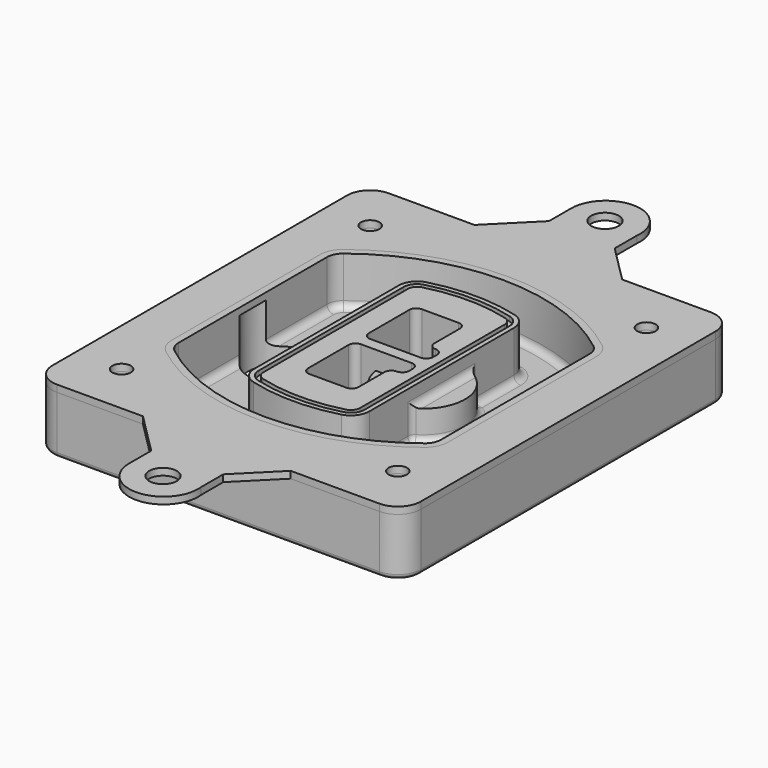
from build123d import *

# Parameters (mm, degrees)
F0_R      = 4
F1_DEPTH  = 25
F2_DEPTH  = 3
F3_DEPTH  = 18
F5_DEPTH  = 21
F6_DEPTH  = 2
F8_DEPTH  = 20
F9_DEPTH  = 16
F10_DEPTH = 25
F7_R      = 6
F7_R_2    = 4
F11_DEPTH = 6
F13_DEPTH = 9
F14_R     = 3
F15_R     = 2
F16_R     = 6
F16_R_2   = 4
F17_DEPTH = 3


with BuildPart() as f1:
    # F0 (on Top) → F1 (new body)
    with BuildSketch(Plane.XY):
        with BuildLine():
            ThreePointArc((-80, -80), (-77.0710678119, -87.0710678119), (-70, -90))
            Line((-70, -90), (70, -90))
            ThreePointArc((70, -90), (77.0710678119, -87.0710678119), (80, -80))
            Line((80, -80), (80, 80))
            ThreePointArc((80, 80), (77.0710678119, 87.0710678119), (70, 90))
            Line((70, 90), (-70, 90))
            ThreePointArc((-70, 90), (-77.0710678119, 87.0710678119), (-80, 80))
            Line((-80, 80), (-80, -80))
        make_face()
        with Locations((-60, -67.5)):
            Circle(F0_R, mode=Mode.SUBTRACT)
        with Locations((60, -67.5)):
            Circle(F0_R, mode=Mode.SUBTRACT)
        with Locations((-60, 67.5)):
            Circle(F0_R, mode=Mode.SUBTRACT)
        with BuildLine():
            ThreePointArc((-64, 40.2934422872), (-62.5820384798, 46.4328484224), (-58.6153846154, 51.3286200352))
            ThreePointArc((-58.6153846154, 51.3286200352), (0, 71.5), (58.6153846154, 51.3286200352))
            ThreePointArc((58.6153846154, 51.3286200352), (62.5820384798, 46.4328484224), (64, 40.2934422872))
            Line((64, 40.2934422872), (64, -40.2934422872))
            ThreePointArc((64, -40.2934422872), (62.5820384798, -46.4328484224), (58.6153846154, -51.3286200352))
            ThreePointArc((58.6153846154, -51.3286200352), (0, -71.5), (-58.6153846154, -51.3286200352))
            ThreePointArc((-58.6153846154, -51.3286200352), (-62.5820384798, -46.4328484224), (-64, -40.2934422872))
            Line((-64, -40.2934422872), (-64, 40.2934422872))
        make_face(mode=Mode.SUBTRACT)
        with Locations((60, 67.5)):
            Circle(F0_R, mode=Mode.SUBTRACT)
        with BuildLine():
            ThreePointArc((58.6153846154, 51.3286200352), (0, 71.5), (-58.6153846154, 51.3286200352))
            ThreePointArc((-58.6153846154, 51.3286200352), (-62.5820384798, 46.4328484224), (-64, 40.2934422872))
            Line((-64, 40.2934422872), (-64, -40.2934422872))
            ThreePointArc((-64, -40.2934422872), (-62.5820384798, -46.4328484224), (-58.6153846154, -51.3286200352))
            ThreePointArc((-58.6153846154, -51.3286200352), (0, -71.5), (58.6153846154, -51.3286200352))
            ThreePointArc((58.6153846154, -51.3286200352), (62.5820384798, -46.4328484224), (64, -40.2934422872))
            Line((64, -40.2934422872), (64, 40.2934422872))
            ThreePointArc((64, 40.2934422872), (62.5820384798, 46.4328484224), (58.6153846154, 51.3286200352))
        make_face()
        with BuildLine():
            Line((-60, -40.2934422872), (-60, 40.2934422872))
            ThreePointArc((-60, 40.2934422872), (-58.9871703427, 44.6787323838), (-56.1538461538, 48.1757121072))
            ThreePointArc((-56.1538461538, 48.1757121072), (0, 67.5), (56.1538461538, 48.1757121072))
            ThreePointArc((56.1538461538, 48.1757121072), (58.9871703427, 44.6787323838), (60, 40.2934422872))
            Line((60, 40.2934422872), (60, -40.2934422872))
            ThreePointArc((60, -40.2934422872), (58.9871703427, -44.6787323838), (56.1538461538, -48.1757121072))
            ThreePointArc((56.1538461538, -48.1757121072), (0, -67.5), (-56.1538461538, -48.1757121072))
            ThreePointArc((-56.1538461538, -48.1757121072), (-58.9871703427, -44.6787323838), (-60, -40.2934422872))
        make_face(mode=Mode.SUBTRACT)
        with BuildLine():
            ThreePointArc((-56.1538461538, 48.1757121072), (-58.9871703427, 44.6787323838), (-60, 40.2934422872))
            Line((-60, 40.2934422872), (-60, -40.2934422872))
            ThreePointArc((-60, -40.2934422872), (-58.9871703427, -44.6787323838), (-56.1538461538, -48.1757121072))
            ThreePointArc((-56.1538461538, -48.1757121072), (0, -67.5), (56.1538461538, -48.1757121072))
            ThreePointArc((56.1538461538, -48.1757121072), (58.9871703427, -44.6787323838), (60, -40.2934422872))
            Line((60, -40.2934422872), (60, 40.2934422872))
            ThreePointArc((60, 40.2934422872), (58.9871703427, 44.6787323838), (56.1538461538, 48.1757121072))
            ThreePointArc((56.1538461538, 48.1757121072), (0, 67.5), (-56.1538461538, 48.1757121072))
        make_face()
        with BuildLine():
            ThreePointArc((54.3076923077, 45.8110311612), (56.2910192399, 43.3631453548), (57, 40.2934422872))
            Line((57, 40.2934422872), (57, -40.2934422872))
            ThreePointArc((57, -40.2934422872), (56.2910192399, -43.3631453548), (54.3076923077, -45.8110311612))
            ThreePointArc((54.3076923077, -45.8110311612), (0, -64.5), (-54.3076923077, -45.8110311612))
            ThreePointArc((-54.3076923077, -45.8110311612), (-56.2910192399, -43.3631453548), (-57, -40.2934422872))
            Line((-57, -40.2934422872), (-57, 40.2934422872))
            ThreePointArc((-57, 40.2934422872), (-56.2910192399, 43.3631453548), (-54.3076923077, 45.8110311612))
            ThreePointArc((-54.3076923077, 45.8110311612), (0, 64.5), (54.3076923077, 45.8110311612))
        make_face(mode=Mode.SUBTRACT)
        with BuildLine():
            Line((57, -40.2934422872), (57, 40.2934422872))
            ThreePointArc((57, 40.2934422872), (56.2910192399, 43.3631453548), (54.3076923077, 45.8110311612))
            ThreePointArc((54.3076923077, 45.8110311612), (0, 64.5), (-54.3076923077, 45.8110311612))
            ThreePointArc((-54.3076923077, 45.8110311612), (-56.2910192399, 43.3631453548), (-57, 40.2934422872))
            Line((-57, 40.2934422872), (-57, -40.2934422872))
            ThreePointArc((-57, -40.2934422872), (-56.2910192399, -43.3631453548), (-54.3076923077, -45.8110311612))
            ThreePointArc((-54.3076923077, -45.8110311612), (0, -64.5), (54.3076923077, -45.8110311612))
            ThreePointArc((54.3076923077, -45.8110311612), (56.2910192399, -43.3631453548), (57, -40.2934422872))
        make_face()
    extrude(amount=-F1_DEPTH)

    # F0 (on Top) → F2 (join)
    with BuildSketch(Plane.XY):
        with BuildLine():
            ThreePointArc((-56.1538461538, 48.1757121072), (-58.9871703427, 44.6787323838), (-60, 40.2934422872))
            Line((-60, 40.2934422872), (-60, -40.2934422872))
            ThreePointArc((-60, -40.2934422872), (-58.9871703427, -44.6787323838), (-56.1538461538, -48.1757121072))
            ThreePointArc((-56.1538461538, -48.1757121072), (0, -67.5), (56.1538461538, -48.1757121072))
            ThreePointArc((56.1538461538, -48.1757121072), (58.9871703427, -44.6787323838), (60, -40.2934422872))
            Line((60, -40.2934422872), (60, 40.2934422872))
            ThreePointArc((60, 40.2934422872), (58.9871703427, 44.6787323838), (56.1538461538, 48.1757121072))
            ThreePointArc((56.1538461538, 48.1757121072), (0, 67.5), (-56.1538461538, 48.1757121072))
        make_face()
        with BuildLine():
            ThreePointArc((54.3076923077, 45.8110311612), (56.2910192399, 43.3631453548), (57, 40.2934422872))
            Line((57, 40.2934422872), (57, -40.2934422872))
            ThreePointArc((57, -40.2934422872), (56.2910192399, -43.3631453548), (54.3076923077, -45.8110311612))
            ThreePointArc((54.3076923077, -45.8110311612), (0, -64.5), (-54.3076923077, -45.8110311612))
            ThreePointArc((-54.3076923077, -45.8110311612), (-56.2910192399, -43.3631453548), (-57, -40.2934422872))
            Line((-57, -40.2934422872), (-57, 40.2934422872))
            ThreePointArc((-57, 40.2934422872), (-56.2910192399, 43.3631453548), (-54.3076923077, 45.8110311612))
            ThreePointArc((-54.3076923077, 45.8110311612), (0, 64.5), (54.3076923077, 45.8110311612))
        make_face(mode=Mode.SUBTRACT)
    extrude(amount=F2_DEPTH)

    # F0 (on Top) → F3 (cut)
    with BuildSketch(Plane.XY):
        with BuildLine():
            Line((57, -40.2934422872), (57, 40.2934422872))
            ThreePointArc((57, 40.2934422872), (56.2910192399, 43.3631453548), (54.3076923077, 45.8110311612))
            ThreePointArc((54.3076923077, 45.8110311612), (0, 64.5), (-54.3076923077, 45.8110311612))
            ThreePointArc((-54.3076923077, 45.8110311612), (-56.2910192399, 43.3631453548), (-57, 40.2934422872))
            Line((-57, 40.2934422872), (-57, -40.2934422872))
            ThreePointArc((-57, -40.2934422872), (-56.2910192399, -43.3631453548), (-54.3076923077, -45.8110311612))
            ThreePointArc((-54.3076923077, -45.8110311612), (0, -64.5), (54.3076923077, -45.8110311612))
            ThreePointArc((54.3076923077, -45.8110311612), (56.2910192399, -43.3631453548), (57, -40.2934422872))
        make_face()
    extrude(amount=-F3_DEPTH, mode=Mode.SUBTRACT)

    # F4 (on face) → F5 (join, through all)
    with BuildSketch(Plane.XY.offset(3)):
        with BuildLine():
            ThreePointArc((-25, -39.2465276821), (-23.3511545998, -44.1109737193), (-19.0842911877, -46.9702398883))
            ThreePointArc((-19.0842911877, -46.9702398883), (0, -49.5), (19.0842911877, -46.9702398883))
            ThreePointArc((19.0842911877, -46.9702398883), (23.3511545998, -44.1109737193), (25, -39.2465276821))
            Line((25, -39.2465276821), (25, 39.2465276821))
            ThreePointArc((25, 39.2465276821), (23.3511545998, 44.1109737193), (19.0842911877, 46.9702398883))
            ThreePointArc((19.0842911877, 46.9702398883), (0, 49.5), (-19.0842911877, 46.9702398883))
            ThreePointArc((-19.0842911877, 46.9702398883), (-23.3511545998, 44.1109737193), (-25, 39.2465276821))
            Line((-25, 39.2465276821), (-25, -39.2465276821))
        make_face()
        with BuildLine():
            ThreePointArc((18.5632183908, 45.0393118368), (21.7633659499, 42.89486221), (23, 39.2465276821))
            Line((23, 39.2465276821), (23, -39.2465276821))
            ThreePointArc((23, -39.2465276821), (21.7633659499, -42.89486221), (18.5632183908, -45.0393118368))
            ThreePointArc((18.5632183908, -45.0393118368), (0, -47.5), (-18.5632183908, -45.0393118368))
            ThreePointArc((-18.5632183908, -45.0393118368), (-21.7633659499, -42.89486221), (-23, -39.2465276821))
            Line((-23, -39.2465276821), (-23, 39.2465276821))
            ThreePointArc((-23, 39.2465276821), (-21.7633659499, 42.89486221), (-18.5632183908, 45.0393118368))
            ThreePointArc((-18.5632183908, 45.0393118368), (0, 47.5), (18.5632183908, 45.0393118368))
        make_face(mode=Mode.SUBTRACT)
        with BuildLine():
            Line((23, -39.2465276821), (23, 39.2465276821))
            ThreePointArc((23, 39.2465276821), (21.7633659499, 42.89486221), (18.5632183908, 45.0393118368))
            ThreePointArc((18.5632183908, 45.0393118368), (0, 47.5), (-18.5632183908, 45.0393118368))
            ThreePointArc((-18.5632183908, 45.0393118368), (-21.7633659499, 42.89486221), (-23, 39.2465276821))
            Line((-23, 39.2465276821), (-23, -39.2465276821))
            ThreePointArc((-23, -39.2465276821), (-21.7633659499, -42.89486221), (-18.5632183908, -45.0393118368))
            ThreePointArc((-18.5632183908, -45.0393118368), (0, -47.5), (18.5632183908, -45.0393118368))
            ThreePointArc((18.5632183908, -45.0393118368), (21.7633659499, -42.89486221), (23, -39.2465276821))
        make_face()
        with BuildLine():
            ThreePointArc((18.0421455939, 43.1083837852), (20.1755772999, 41.6787507007), (21, 39.2465276821))
            Line((21, 39.2465276821), (21, -39.2465276821))
            ThreePointArc((21, -39.2465276821), (20.1755772999, -41.6787507007), (18.0421455939, -43.1083837852))
            ThreePointArc((18.0421455939, -43.1083837852), (0, -45.5), (-18.0421455939, -43.1083837852))
            ThreePointArc((-18.0421455939, -43.1083837852), (-20.1755772999, -41.6787507007), (-21, -39.2465276821))
            Line((-21, -39.2465276821), (-21, 39.2465276821))
            ThreePointArc((-21, 39.2465276821), (-20.1755772999, 41.6787507007), (-18.0421455939, 43.1083837852))
            ThreePointArc((-18.0421455939, 43.1083837852), (0, 45.5), (18.0421455939, 43.1083837852))
        make_face(mode=Mode.SUBTRACT)
        with BuildLine():
            Line((21, -39.2465276821), (21, 39.2465276821))
            ThreePointArc((21, 39.2465276821), (20.1755772999, 41.6787507007), (18.0421455939, 43.1083837852))
            ThreePointArc((18.0421455939, 43.1083837852), (0, 45.5), (-18.0421455939, 43.1083837852))
            ThreePointArc((-18.0421455939, 43.1083837852), (-20.1755772999, 41.6787507007), (-21, 39.2465276821))
            Line((-21, 39.2465276821), (-21, -39.2465276821))
            ThreePointArc((-21, -39.2465276821), (-20.1755772999, -41.6787507007), (-18.0421455939, -43.1083837852))
            ThreePointArc((-18.0421455939, -43.1083837852), (0, -45.5), (18.0421455939, -43.1083837852))
            ThreePointArc((18.0421455939, -43.1083837852), (20.1755772999, -41.6787507007), (21, -39.2465276821))
        make_face()
        with BuildLine():
            Line((-8, -2.5), (14, -2.5))
            ThreePointArc((14, -2.5), (16.1213203436, -3.3786796564), (17, -5.5))
            Line((17, -5.5), (17, -7.5))
            ThreePointArc((17, -7.5), (16.1213203436, -9.6213203436), (14, -10.5))
            ThreePointArc((14, -10.5), (11.8786796564, -11.3786796564), (11, -13.5))
            Line((11, -13.5), (11, -27.5))
            ThreePointArc((11, -27.5), (10.1213203436, -29.6213203436), (8, -30.5))
            Line((8, -30.5), (-8, -30.5))
            ThreePointArc((-8, -30.5), (-10.1213203436, -29.6213203436), (-11, -27.5))
            Line((-11, -27.5), (-11, -5.5))
            ThreePointArc((-11, -5.5), (-10.1213203436, -3.3786796564), (-8, -2.5))
        make_face(mode=Mode.SUBTRACT)
        with BuildLine():
            ThreePointArc((-8, 2.5), (-10.1213203436, 3.3786796564), (-11, 5.5))
            Line((-11, 5.5), (-11, 27.5))
            ThreePointArc((-11, 27.5), (-10.1213203436, 29.6213203436), (-8, 30.5))
            Line((-8, 30.5), (8, 30.5))
            ThreePointArc((8, 30.5), (10.1213203436, 29.6213203436), (11, 27.5))
            Line((11, 27.5), (11, 13.5))
            ThreePointArc((11, 13.5), (11.8786796564, 11.3786796564), (14, 10.5))
            ThreePointArc((14, 10.5), (16.1213203436, 9.6213203436), (17, 7.5))
            Line((17, 7.5), (17, 5.5))
            ThreePointArc((17, 5.5), (16.1213203436, 3.3786796564), (14, 2.5))
            Line((14, 2.5), (-8, 2.5))
        make_face(mode=Mode.SUBTRACT)
    extrude(amount=-F5_DEPTH)

    # F4 (on face) → F6 (cut)
    with BuildSketch(Plane.XY.offset(3)):
        with BuildLine():
            Line((23, -39.2465276821), (23, 39.2465276821))
            ThreePointArc((23, 39.2465276821), (21.7633659499, 42.89486221), (18.5632183908, 45.0393118368))
            ThreePointArc((18.5632183908, 45.0393118368), (0, 47.5), (-18.5632183908, 45.0393118368))
            ThreePointArc((-18.5632183908, 45.0393118368), (-21.7633659499, 42.89486221), (-23, 39.2465276821))
            Line((-23, 39.2465276821), (-23, -39.2465276821))
            ThreePointArc((-23, -39.2465276821), (-21.7633659499, -42.89486221), (-18.5632183908, -45.0393118368))
            ThreePointArc((-18.5632183908, -45.0393118368), (0, -47.5), (18.5632183908, -45.0393118368))
            ThreePointArc((18.5632183908, -45.0393118368), (21.7633659499, -42.89486221), (23, -39.2465276821))
        make_face()
        with BuildLine():
            ThreePointArc((18.0421455939, 43.1083837852), (20.1755772999, 41.6787507007), (21, 39.2465276821))
            Line((21, 39.2465276821), (21, -39.2465276821))
            ThreePointArc((21, -39.2465276821), (20.1755772999, -41.6787507007), (18.0421455939, -43.1083837852))
            ThreePointArc((18.0421455939, -43.1083837852), (0, -45.5), (-18.0421455939, -43.1083837852))
            ThreePointArc((-18.0421455939, -43.1083837852), (-20.1755772999, -41.6787507007), (-21, -39.2465276821))
            Line((-21, -39.2465276821), (-21, 39.2465276821))
            ThreePointArc((-21, 39.2465276821), (-20.1755772999, 41.6787507007), (-18.0421455939, 43.1083837852))
            ThreePointArc((-18.0421455939, 43.1083837852), (0, 45.5), (18.0421455939, 43.1083837852))
        make_face(mode=Mode.SUBTRACT)
    extrude(amount=-F6_DEPTH, mode=Mode.SUBTRACT)

    # F7 (on face) → F8 (join)
    with BuildSketch(Plane(origin=(0, 0, -25), x_dir=(1, 0, 0), z_dir=(0, 0, -1))):
        with BuildLine():
            ThreePointArc((3.28842436, 0), (16.7567035675, 13.4682792075), (30.224982775, 0))
            Line((30.224982775, 0), (35.224982775, 0))
            ThreePointArc((35.224982775, 0), (16.7567035675, 18.4682792075), (-1.71157564, 0))
            Line((-1.71157564, 0), (3.28842436, 0))
        make_face()
        with BuildLine():
            Line((3.28842436, 0), (30.224982775, 0))
            ThreePointArc((30.224982775, 0), (16.7567035675, 13.4682792075), (3.28842436, 0))
        make_face()
        with BuildLine():
            ThreePointArc((3.28842436, 0), (16.7567035675, -13.4682792075), (30.224982775, 0))
            Line((30.224982775, 0), (3.28842436, 0))
        make_face()
        with BuildLine():
            Line((35.224982775, 0), (30.224982775, 0))
            ThreePointArc((30.224982775, 0), (16.7567035675, -13.4682792075), (3.28842436, 0))
            Line((3.28842436, 0), (-1.71157564, 0))
            ThreePointArc((-1.71157564, 0), (16.7567035675, -18.4682792075), (35.224982775, 0))
        make_face()
    extrude(amount=-F8_DEPTH)

    # F7 (on face) → F9 (cut)
    with BuildSketch(Plane(origin=(0, 0, -25), x_dir=(1, 0, 0), z_dir=(0, 0, -1))):
        with BuildLine():
            Line((3.28842436, 0), (30.224982775, 0))
            ThreePointArc((30.224982775, 0), (16.7567035675, 13.4682792075), (3.28842436, 0))
        make_face()
        with BuildLine():
            ThreePointArc((3.28842436, 0), (16.7567035675, -13.4682792075), (30.224982775, 0))
            Line((30.224982775, 0), (3.28842436, 0))
        make_face()
    extrude(amount=-F9_DEPTH, mode=Mode.SUBTRACT)

    # F7 (on face) → F10 (cut)
    with BuildSketch(Plane(origin=(0, 0, -25), x_dir=(1, 0, 0), z_dir=(0, 0, -1))):
        with BuildLine():
            Line((-59.0318229325, 0), (-32.0952645175, 0))
            ThreePointArc((-32.0952645175, 0), (-45.563543725, 13.4682792075), (-59.0318229325, 0))
        make_face()
        with BuildLine():
            ThreePointArc((-59.0318229325, 0), (-45.563543725, -13.4682792075), (-32.0952645175, 0))
            Line((-32.0952645175, 0), (-59.0318229325, 0))
        make_face()
    extrude(amount=-F10_DEPTH, mode=Mode.SUBTRACT)

    # F7 (on face) → F11 (cut)
    with BuildSketch(Plane(origin=(0, 0, -25), x_dir=(1, 0, 0), z_dir=(0, 0, -1))):
        with Locations((60, -67.5)):
            Circle(F7_R)
        with Locations((60, -67.5)):
            Circle(F7_R_2, mode=Mode.SUBTRACT)
        with Locations((60, -67.5)):
            Circle(F7_R)
        with Locations((60, -67.5)):
            Circle(F7_R_2, mode=Mode.SUBTRACT)
        with Locations((-60, -67.5)):
            Circle(F7_R)
        with Locations((-60, -67.5)):
            Circle(F7_R_2, mode=Mode.SUBTRACT)
        with Locations((-60, -67.5)):
            Circle(F7_R)
        with Locations((-60, -67.5)):
            Circle(F7_R_2, mode=Mode.SUBTRACT)
        with Locations((-60, 67.5)):
            Circle(F7_R)
        with Locations((-60, 67.5)):
            Circle(F7_R_2, mode=Mode.SUBTRACT)
        with Locations((-60, 67.5)):
            Circle(F7_R)
        with Locations((-60, 67.5)):
            Circle(F7_R_2, mode=Mode.SUBTRACT)
        with Locations((60, 67.5)):
            Circle(F7_R)
        with Locations((60, 67.5)):
            Circle(F7_R_2, mode=Mode.SUBTRACT)
        with Locations((60, 67.5)):
            Circle(F7_R)
        with Locations((60, 67.5)):
            Circle(F7_R_2, mode=Mode.SUBTRACT)
    extrude(amount=-F11_DEPTH, mode=Mode.SUBTRACT)

    # F12 (on face) → F13 (cut, through all)
    with BuildSketch(Plane(origin=(0, 0, -9), x_dir=(1, 0, 0), z_dir=(0, 0, -1))):
        with BuildLine():
            Line((11, 13.5), (11, 17.5481537753))
            ThreePointArc((11, 17.5481537753), (2.5696536419, 11.8239143813), (-1.5415842455, 2.5))
            Line((-1.5415842455, 2.5), (3.5224848595, 2.5))
            ThreePointArc((3.5224848595, 2.5), (6.1857188154, 8.3455872281), (11.2536447004, 12.2927168648))
            ThreePointArc((11.2536447004, 12.2927168648), (11.0640958889, 12.8831798879), (11, 13.5))
        make_face()
        with BuildLine():
            ThreePointArc((11.2536447004, -12.2927168648), (6.1857188154, -8.3455872281), (3.5224848595, -2.5))
            Line((3.5224848595, -2.5), (-1.5415842455, -2.5))
            ThreePointArc((-1.5415842455, -2.5), (2.5696536419, -11.8239143813), (11, -17.5481537753))
            Line((11, -17.5481537753), (11, -13.5))
            ThreePointArc((11, -13.5), (11.0640958889, -12.8831798879), (11.2536447004, -12.2927168648))
        make_face()
        with BuildLine():
            ThreePointArc((11.2536447004, 12.2927168648), (6.1857188154, 8.3455872281), (3.5224848595, 2.5))
            Line((3.5224848595, 2.5), (14, 2.5))
            ThreePointArc((14, 2.5), (16.1213203436, 3.3786796564), (17, 5.5))
            Line((17, 5.5), (17, 7.5))
            ThreePointArc((17, 7.5), (16.1213203436, 9.6213203436), (14, 10.5))
            ThreePointArc((14, 10.5), (12.3601599782, 10.9878446101), (11.2536447004, 12.2927168648))
        make_face()
        with BuildLine():
            Line((14, -2.5), (3.5224848595, -2.5))
            ThreePointArc((3.5224848595, -2.5), (6.1857188154, -8.3455872281), (11.2536447004, -12.2927168648))
            ThreePointArc((11.2536447004, -12.2927168648), (12.3601599782, -10.9878446101), (14, -10.5))
            ThreePointArc((14, -10.5), (16.1213203436, -9.6213203436), (17, -7.5))
            Line((17, -7.5), (17, -5.5))
            ThreePointArc((17, -5.5), (16.1213203436, -3.3786796564), (14, -2.5))
        make_face()
    extrude(amount=F13_DEPTH, mode=Mode.SUBTRACT)

    # F14
    f14_edges = [f1.edges().sort_by_distance(p)[0] for p in [
        (-57, -23.703476, -18),
        (-57, 23.703476, -18),
        (25, 0, -5),
        (25, 16.526506, -11.5),
        (25, -16.526506, -11.5),
        (25, -27.886517, -18),
        (35.224983, 0, -18),
    ]]
    fillet(f14_edges, radius=F14_R)

    # F15
    f15_edges = [f1.edges().sort_by_distance(p)[0] for p in [
        (0, -90, -25),
    ]]
    fillet(f15_edges, radius=F15_R)


with BuildPart() as f17:
    # F16 (on Top) → F17 (new body, through all)
    with BuildSketch(Plane.XY):
        with BuildLine():
            Line((31.4628074335, -90), (-32.7155627695, -90))
            Line((-32.7155627695, -90), (-14.7155627695, -108))
            Line((-14.7155627695, -108), (-14.7155627695, -120))
            ThreePointArc((-14.7155627695, -120), (1.1470706933, -134.9751749075), (15.1852190317, -118.2775884018))
            Line((15.1852190317, -118.2775884018), (15.1852190317, -106.2775884018))
            Line((15.1852190317, -106.2775884018), (31.4628074335, -90))
        make_face()
        with Locations((0, -120)):
            Circle(F16_R, mode=Mode.SUBTRACT)
        with BuildLine():
            Line((-14.7155627695, 108), (-32.7155627695, 90))
            Line((-32.7155627695, 90), (31.4628074335, 90))
            Line((31.4628074335, 90), (15.1852190317, 106.2775884018))
            Line((15.1852190317, 106.2775884018), (15.1852190317, 118.2775884018))
            ThreePointArc((15.1852190317, 118.2775884018), (1.1470706933, 134.9751749075), (-14.7155627695, 120))
            Line((-14.7155627695, 120), (-14.7155627695, 108))
        make_face()
        with Locations((0, 120)):
            Circle(F16_R, mode=Mode.SUBTRACT)
        with BuildLine():
            Line((-32.7155627695, 90), (-70, 90))
            ThreePointArc((-70, 90), (-77.0710678119, 87.0710678119), (-80, 80))
            Line((-80, 80), (-80, -80))
            ThreePointArc((-80, -80), (-77.0710678119, -87.0710678119), (-70, -90))
            Line((-70, -90), (-32.7155627695, -90))
            Line((-32.7155627695, -90), (31.4628074335, -90))
            Line((31.4628074335, -90), (70, -90))
            ThreePointArc((70, -90), (77.0710678119, -87.0710678119), (80, -80))
            Line((80, -80), (80, 80))
            ThreePointArc((80, 80), (77.0710678119, 87.0710678119), (70, 90))
            Line((70, 90), (31.4628074335, 90))
            Line((31.4628074335, 90), (-32.7155627695, 90))
        make_face()
        with Locations((-60, -67.5)):
            Circle(F16_R_2, mode=Mode.SUBTRACT)
        with Locations((60, -67.5)):
            Circle(F16_R_2, mode=Mode.SUBTRACT)
        with Locations((-60, 67.5)):
            Circle(F16_R_2, mode=Mode.SUBTRACT)
        with BuildLine():
            ThreePointArc((56.1538461538, 48.1757121072), (58.9871703427, 44.6787323838), (60, 40.2934422872))
            Line((60, 40.2934422872), (60, -40.2934422872))
            ThreePointArc((60, -40.2934422872), (58.9871703427, -44.6787323838), (56.1538461538, -48.1757121072))
            ThreePointArc((56.1538461538, -48.1757121072), (0, -67.5), (-56.1538461538, -48.1757121072))
            ThreePointArc((-56.1538461538, -48.1757121072), (-58.9871703427, -44.6787323838), (-60, -40.2934422872))
            Line((-60, -40.2934422872), (-60, 40.2934422872))
            ThreePointArc((-60, 40.2934422872), (-58.9871703427, 44.6787323838), (-56.1538461538, 48.1757121072))
            ThreePointArc((-56.1538461538, 48.1757121072), (0, 67.5), (56.1538461538, 48.1757121072))
        make_face(mode=Mode.SUBTRACT)
        with Locations((60, 67.5)):
            Circle(F16_R_2, mode=Mode.SUBTRACT)
    extrude(amount=F17_DEPTH)


solid = Compound([f1.part, f17.part])
